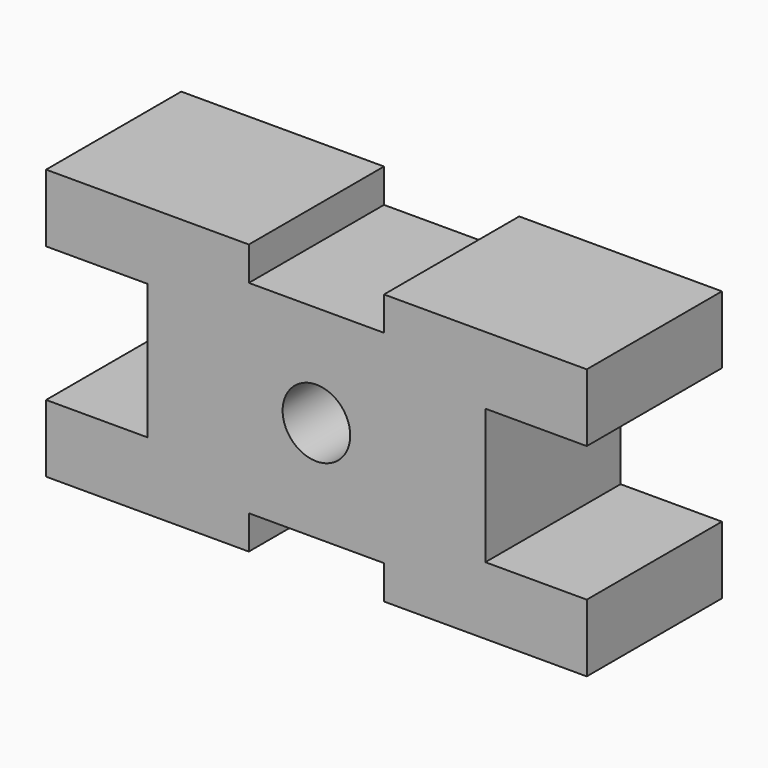
from build123d import *

# Parameters (mm, degrees)
F0_R     = 5
F1_DEPTH = 25


with BuildPart() as f1:
    # F0 (on Front) → F1 (new body)
    with BuildSketch(Plane.XZ):
        Polygon((-10, -15), (10, -15), (10, -20), (40, -20), (40, -10), (25, -10), (25, 10), (40, 10), (40, 20), (10, 20), (10, 15), (-10, 15), (-10, 20), (-40, 20), (-40, 10), (-25, 10), (-25, -10), (-40, -10), (-40, -20), (-10, -20), align=None)
        Circle(F0_R, mode=Mode.SUBTRACT)
    extrude(amount=F1_DEPTH)


solid = f1.part
